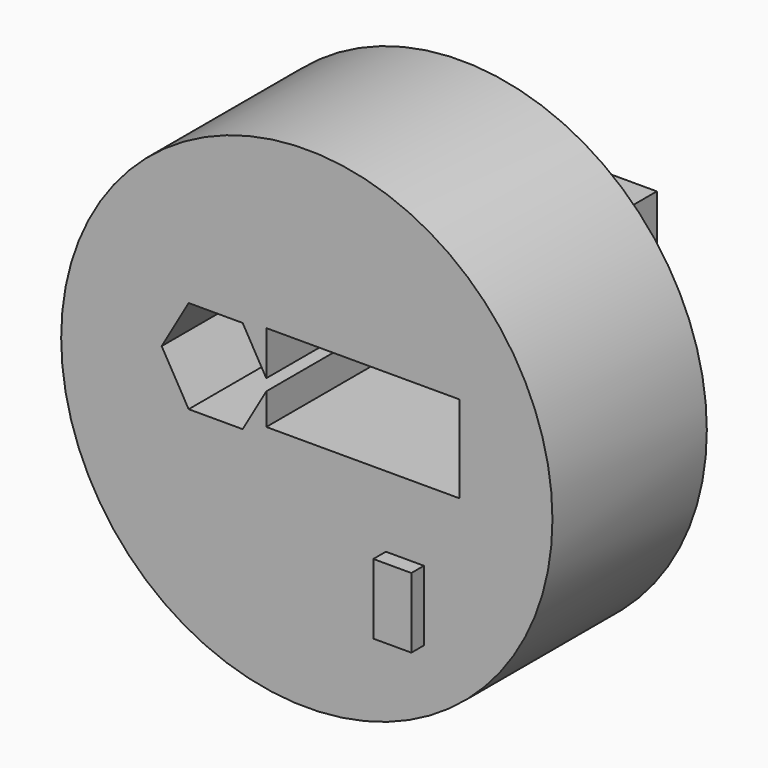
from build123d import *

# Parameters (mm, degrees)
F0_R     = 63.645292
F1_DEPTH = 25
F2_W     = 50
F2_H     = 22.55842
F3_DEPTH = 100
F5_DEPTH = 60
F6_W     = 9.857446
F6_H     = 18.167863
F7_DEPTH = 4.075194
F8_W     = 18.80996
F8_H     = 51.602587
F9_DEPTH = 12.5


with BuildPart() as f1:
    # F0 (on Front) → F1 (new body, symmetric)
    with BuildSketch(Plane.XZ):
        Circle(F0_R)
    extrude(amount=F1_DEPTH, both=True)

    # F2 (on face) → F3 (cut)
    with BuildSketch(Plane.XZ.offset(25)):
        with Locations((14.503569, 8.230565)):
            Rectangle(F2_W, F2_H)
    extrude(amount=-F3_DEPTH, mode=Mode.SUBTRACT)

    # F4 (on face) → F5 (cut)
    with BuildSketch(Plane.XZ.offset(25)):
        Polygon((-16.628109, 18.683635), (-30.614219, 18.683635), (-37.607275, 6.571308), (-30.614219, -5.541019), (-16.628109, -5.541019), (-9.635054, 6.571308), align=None)
    extrude(amount=-F5_DEPTH, mode=Mode.SUBTRACT)


with BuildPart() as f7:
    # F6 (on face) → F7 (new body)
    with BuildSketch(Plane.XZ.offset(25)):
        with Locations((25.415629, -30.509575)):
            Rectangle(F6_W, F6_H)
    extrude(amount=F7_DEPTH)


with BuildPart() as f9:
    # F8 (on Right) → F9 (new body, symmetric)
    with BuildSketch(Plane.YZ):
        with Locations((63.328743, -7.36241)):
            Rectangle(F8_W, F8_H)
    extrude(amount=F9_DEPTH, both=True)


solid = Compound([f1.part, f7.part, f9.part])
